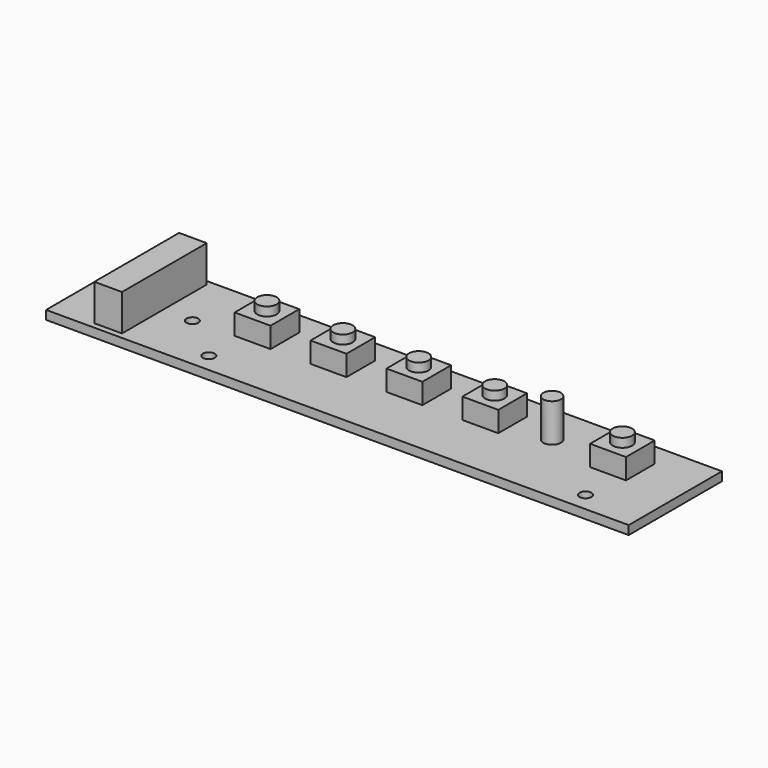
from build123d import *

# Parameters (mm, degrees)
F0_W      = 99
F0_H      = 19.8
F1_DEPTH  = 1.5
F2_W      = 6.1
F2_H      = 6.1
F3_DEPTH  = 3.5
F4_R      = 1.65
F5_DEPTH  = 1.5
F6_R      = 1.5
F7_DEPTH  = 6.5
F8_W      = 4.7
F8_H      = 18
F9_DEPTH  = 6.2
F10_R     = 1
F11_DEPTH = 1.501


with BuildPart() as f1:
    # F0 (on Top) → F1 (new body)
    with BuildSketch(Plane.XY):
        Rectangle(F0_W, F0_H)
    extrude(amount=F1_DEPTH)

    # F2 (on face) → F3 (join)
    with BuildSketch(Plane.XY.offset(1.5)):
        with Locations((38.15, 2.95)):
            Rectangle(F2_W, F2_H)
        with Locations((16.45, 2.95)):
            Rectangle(F2_W, F2_H)
        with Locations((3.55, 2.95)):
            Rectangle(F2_W, F2_H)
        with Locations((-9.35, 2.95)):
            Rectangle(F2_W, F2_H)
        with Locations((-22.25, 2.95)):
            Rectangle(F2_W, F2_H)
    extrude(amount=F3_DEPTH)

    # F4 (on face) → F5 (join)
    with BuildSketch(Plane.XY.offset(5)):
        with Locations((-22.25, 2.95)):
            Circle(F4_R)
        with Locations((-9.35, 2.95)):
            Circle(F4_R)
        with Locations((3.55, 2.95)):
            Circle(F4_R)
        with Locations((16.45, 2.95)):
            Circle(F4_R)
        with Locations((38.15, 2.95)):
            Circle(F4_R)
    extrude(amount=F5_DEPTH)

    # F6 (on face) → F7 (join)
    with BuildSketch(Plane.XY.offset(1.5)):
        with Locations((26.2, 2.95)):
            Circle(F6_R)
    extrude(amount=F7_DEPTH)

    # F8 (on face) → F9 (join)
    with BuildSketch(Plane.XY.offset(1.5)):
        with Locations((-39.75, 0.1)):
            Rectangle(F8_W, F8_H)
    extrude(amount=F9_DEPTH)

    # F10 (on face) → F11 (cut, through all)
    with BuildSketch(Plane.XY.offset(1.5)):
        with Locations((-24.4, -6.7)):
            Circle(F10_R)
        with Locations((-32.4, -0.2)):
            Circle(F10_R)
        with Locations((39.6, -6.7)):
            Circle(F10_R)
    extrude(amount=-F11_DEPTH, mode=Mode.SUBTRACT)


solid = f1.part
